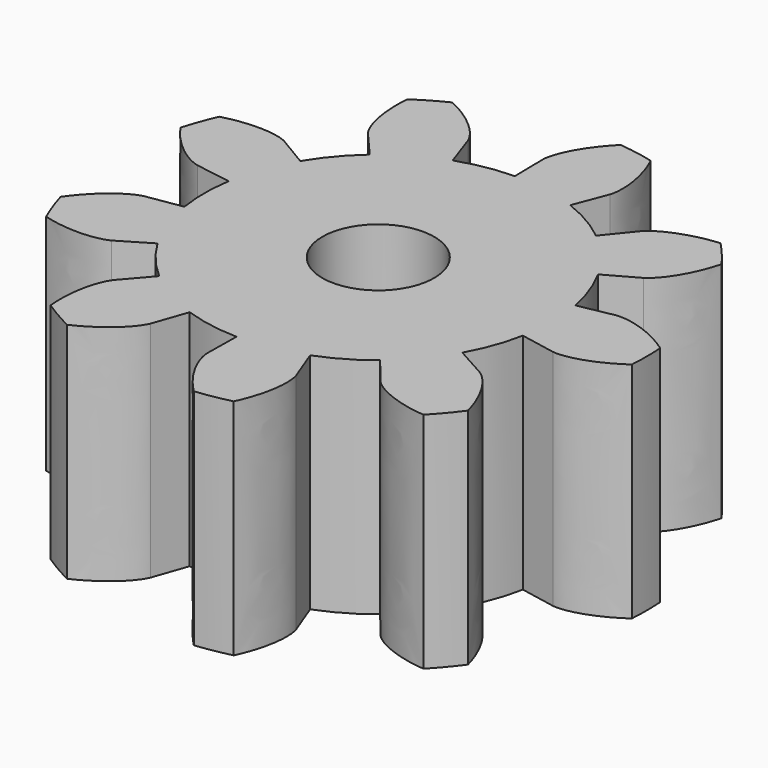
from build123d import *

# Parameters (mm, degrees)
F2_DEPTH = 5
F3_COUNT = 9
F4_R     = 1.25
F5_DEPTH = 5
F6_ANGLE = -10.85395829


with BuildPart() as f2:
    # F0 (on Top) → F2 (new body)
    with BuildSketch(Plane.XY):
        with BuildLine():
            ThreePointArc((3.6130946236, 1.4384032925), (-3.8193180234, -0.7323022786), (3.888888889, 0))
            ThreePointArc((3.888888889, 0), (3.8193180234, 0.7323022786), (3.6130946236, 1.4384032925))
        make_face()
        with BuildLine():
            ThreePointArc((3.6130946236, 1.4384032925), (3.8193180234, 0.7323022786), (3.888888889, 0))
            Line((3.888888889, 0), (4.698463104, 0))
            add(Edge.make_bspline(
                [(4.698463104, 0), (4.7049792483, 0), (4.7132233908, 0.0006842948), (4.763050157, 0.0061225393), (4.8350485603, 0.0212028992), (4.9376742279, 0.050620519), (5.0649928014, 0.098810981), (5.2157995796, 0.170113939), (5.3864295271, 0.2680459384), (5.5743056682, 0.3979334197), (5.7639316145, 0.549288566), (5.8961218075, 0.6803639178), (5.95452699, 0.7372979895)],
                knots=[0, 0, 0, 0, 0.0334562722, 0.0914019297, 0.1662092137, 0.2547223082, 0.3550866872, 0.4660436628, 0.5866665998, 0.7162364101, 0.8541740006, 0.983034796, 0.983034796, 0.983034796, 0.983034796], degree=3))
            ThreePointArc((5.95452699, 0.7372979895), (5.8926620931, 1.1298378012), (5.8049489079, 1.5174215552))
            add(Edge.make_bspline(
                [(4.3652550291, 1.7378446624), (4.3713090581, 1.7402548222), (4.3792216418, 1.7426683598), (4.4275262385, 1.7560454694), (4.4999964714, 1.7686650053), (4.6062249239, 1.7792923221), (4.7423387055, 1.7816114308), (4.9088236804, 1.7711448505), (5.1035754149, 1.7432698185), (5.3261698064, 1.6920844784), (5.5583302651, 1.6216011379), (5.7296272375, 1.5487153218), (5.8049489079, 1.5174215552)],
                knots=[0, 0, 0, 0, 0.0334562722, 0.0914019297, 0.1662092137, 0.2547223082, 0.3550866872, 0.4660436628, 0.5866665998, 0.7162364101, 0.8541740006, 0.983034796, 0.983034796, 0.983034796, 0.983034796], degree=3))
            Line((4.3652550291, 1.7378446624), (3.6130946236, 1.4384032925))
        make_face()
    extrude(amount=F2_DEPTH)

    # F3: F2 ×9 about axis
    f3_axis = Axis((0, 0, 10.5789164081), (0, 0, 1))


with BuildPart() as f2_1:
    add(f2.part)
    for i in range(1, F3_COUNT):
        add(f2.part.rotate(f3_axis, i * 360 / F3_COUNT))

    # F4 (on face) → F5 (cut, through all)
    with BuildSketch(Plane.XY.offset(5)):
        Circle(F4_R)
    extrude(amount=-F5_DEPTH, mode=Mode.SUBTRACT)


with BuildPart() as f2_2:
    # F6: moved
    add(f2_1.part.rotate(Axis((0, 0, 10.5789164081), (0, 0, 1)), F6_ANGLE))


solid = f2_2.part
